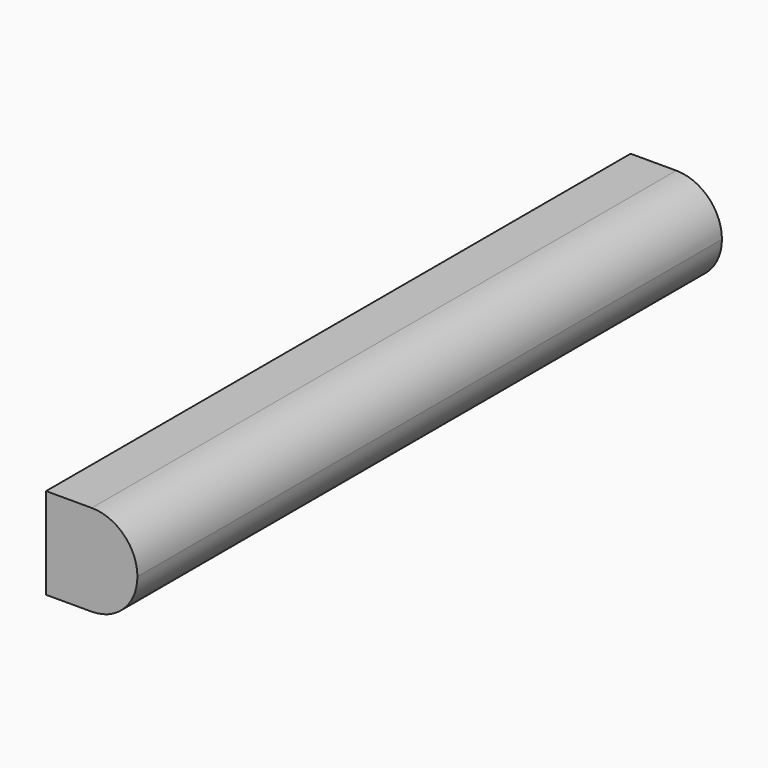
from build123d import *

# Parameters (mm, degrees)
F1_DEPTH = 152.4


with BuildPart() as f1:
    # F0 (on Front) → F1 (new body)
    with BuildSketch(Plane.XZ):
        with BuildLine():
            Line((0, 9.525), (-9.525, 9.525))
            Line((-9.525, 9.525), (-9.525, -9.525))
            Line((-9.525, -9.525), (0, -9.525))
            ThreePointArc((0, -9.525), (6.735192, -6.735192), (9.525, 0))
            ThreePointArc((9.525, 0), (6.735192, 6.735192), (0, 9.525))
        make_face()
    extrude(amount=F1_DEPTH)


solid = f1.part
